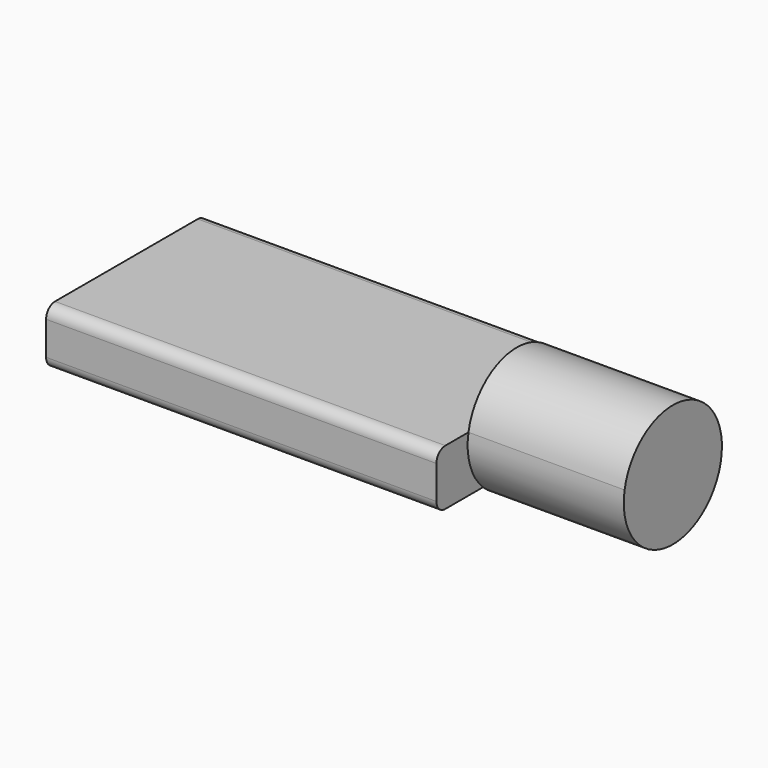
from build123d import *

# Parameters (mm, degrees)
F0_W     = 35
F0_H     = 18
F1_DEPTH = 5
F3_DEPTH = 14
F4_R     = 1


with BuildPart() as f1:
    # F0 (on Top) → F1 (new body)
    with BuildSketch(Plane.XY):
        with Locations((17.5, 9)):
            Rectangle(F0_W, F0_H)
    extrude(amount=F1_DEPTH)

    # F2 (on face) → F3 (join)
    with BuildSketch(Plane.YZ.offset(35)):
        with BuildLine():
            Line((3.5916730868, 5), (14.4083269132, 5))
            ThreePointArc((14.4083269132, 5), (9, 9.5), (3.5916730868, 5))
        make_face()
        with BuildLine():
            ThreePointArc((12.7749172176, 0), (14.0503487353, 1.8219325879), (14.5, 4))
            ThreePointArc((14.5, 4), (14.4770337785, 4.502096593), (14.4083269132, 5))
            Line((14.4083269132, 5), (3.5916730868, 5))
            ThreePointArc((3.5916730868, 5), (3.7719034829, 2.2920752919), (5.2250827824, 0))
            Line((5.2250827824, 0), (12.7749172176, 0))
        make_face()
        with BuildLine():
            ThreePointArc((5.2250827824, 0), (9, -1.5), (12.7749172176, 0))
            Line((12.7749172176, 0), (5.2250827824, 0))
        make_face()
    extrude(amount=F3_DEPTH)

    # F4
    f4_edges = [f1.edges().sort_by_distance(p)[0] for p in [
        (17.5, 0, 5),
        (17.5, 18, 5),
        (17.5, 0, 0),
        (17.5, 18, 0),
    ]]
    fillet(f4_edges, radius=F4_R)


solid = f1.part
